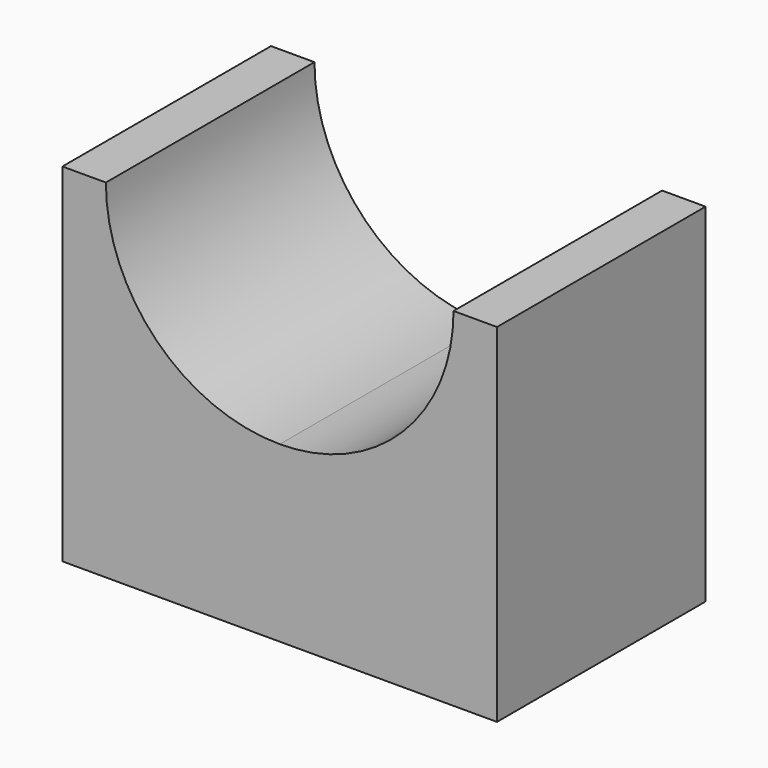
from build123d import *

# Parameters (mm, degrees)
F1_DEPTH = 15


with BuildPart() as f1:
    # F0 (on Front) → F1 (new body)
    with BuildSketch(Plane.XZ):
        with BuildLine():
            Line((23.603925, 11.403642), (21.103925, 11.403642))
            ThreePointArc((21.103925, 11.403642), (18.174993, 4.332574), (11.103925, 1.403642))
            ThreePointArc((11.103925, 1.403642), (4.032858, 4.332574), (1.103925, 11.403642))
            Line((1.103925, 11.403642), (-1.396075, 11.403642))
            Line((-1.396075, 11.403642), (-1.396075, -8.596358))
            Line((-1.396075, -8.596358), (23.603925, -8.596358))
            Line((23.603925, -8.596358), (23.603925, 11.403642))
        make_face()
    extrude(amount=F1_DEPTH)


solid = f1.part
